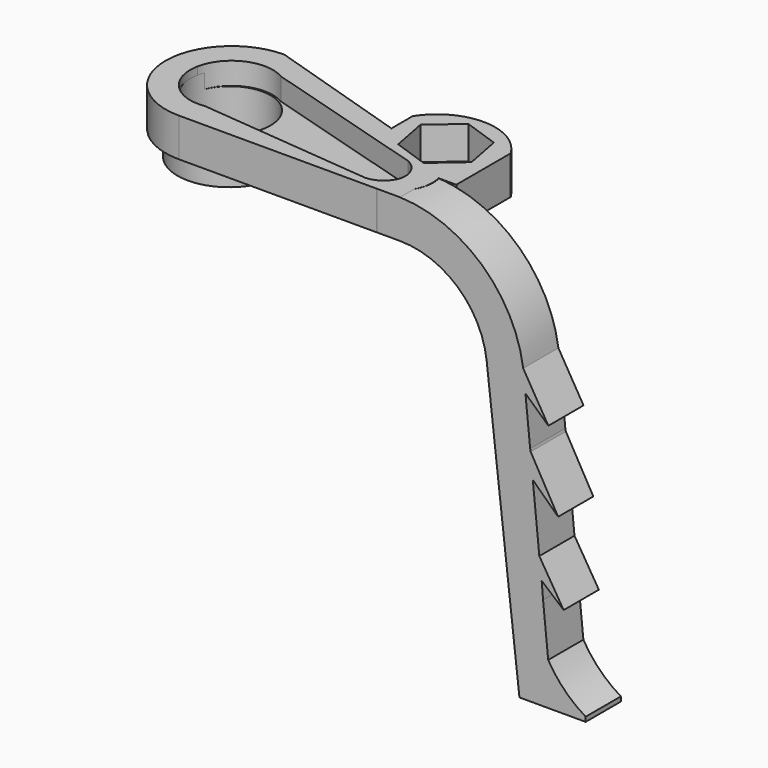
from build123d import *

# Parameters (mm, degrees)
PAD061_DEPTH       = 3.5
PAD059_DEPTH       = 2.5
PAD057_DEPTH       = 2
PAD058_DEPTH       = 3.5
SKETCH098_R        = 4.702209
PAD060_DEPTH       = 2.2
SKETCH099_R        = 3.711245
POCKET003044_DEPTH = 5
SKETCH101_R        = 1.7
POCKET003045_DEPTH = 5
POCKET003046_DEPTH = 3
PAD062_DEPTH       = 4


with BuildPart() as leg_link_shape:
    # Sketch100 → Pad061 (new body)
    with BuildSketch(Plane(origin=(0, 0, 31.512352), x_dir=(-1, 0, 0), z_dir=(0, 0, 1))):
        with BuildLine():
            Line((-20.438215, -2), (-13.234047, -4.102969))
            Line((-13.234047, -4.102969), (-13.028216, -6.021869))
            Line((-13.028216, -6.021869), (-13.028216, -8.298126))
            ThreePointArc((-22.034031, -8.18918), (-17.561616, -10.764285), (-13.028216, -8.298126))
            Line((-22.034031, -8.18918), (-22.034031, -2))
            Line((-20.438215, -2), (-22.034031, -2))
        make_face()
    extrude(amount=-PAD061_DEPTH)


with BuildPart() as obj1:
    # Sketch094 → Pad059 (new body)
    with BuildSketch(Plane(origin=(0, 4, 32), x_dir=(-0.981627, 0.190809, 0), z_dir=(0, 0, 1))):
        with BuildLine():
            ThreePointArc((3.75, 0.000844), (2.164719, 3.062106), (-1.25, 3.535534))
            Line((-1.25, 3.535534), (-17.000656, 2.000032))
            ThreePointArc((-17.000656, 2.000032), (-18.187877, 1.283749), (-18.711844, 0))
            ThreePointArc((-18.711844, 0), (-18.187829, -1.28373), (-17.000581, -1.999968))
            Line((-1.249867, -3.534878), (-17.000581, -1.999968))
            ThreePointArc((-1.249867, -3.534878), (2.165178, -3.061078), (3.75, 0.000844))
        make_face()
    extrude(amount=-PAD059_DEPTH)


with BuildPart() as obj2:
    # Sketch095 → Pad057 (new body, symmetric)
    with BuildSketch(Plane.XZ):
        with BuildLine():
            Line((0, 28.012352), (20.118014, 28.012352))
            ThreePointArc((27.996705, 20.985645), (25.39647, 26.000475), (20.118014, 28.012352))
            Line((27.996705, 20.985645), (30.977077, -4.999855))
            Line((33.977077, -4.999855), (30.977077, -4.999855))
            Line((31.375086, 21.001563), (33.977077, -4.999855))
            ThreePointArc((31.375086, 21.001563), (27.724484, 28.375327), (20.118014, 31.512352))
            Line((0, 31.512352), (20.118014, 31.512352))
            Line((0, 28.012352), (0, 31.512352))
        make_face()
    extrude(amount=PAD057_DEPTH, both=True)

    # Sketch096 → Pad058 (new body)
    with BuildSketch(Plane(origin=(0, 0, 31.512352), x_dir=(-1, 0, 0), z_dir=(0, 0, 1))):
        with BuildLine():
            Line((-18.002971, 2.001985), (0, 2.001985))
            ThreePointArc((0, -10), (6.000993, -3.999007), (0, 2.001985))
            Line((-19, -4), (0, -10))
            ThreePointArc((-18.002971, 2.001985), (-20.489406, -0.668781), (-19, -4))
        make_face()
    extrude(amount=-PAD058_DEPTH)

    # Cut: cut obj1
    add(obj1.part, mode=Mode.SUBTRACT)

    # Sketch098 → Pad060 (new body)
    with BuildSketch(Plane(origin=(0, 0, 28.012352), x_dir=(1, 0, 0), z_dir=(0, 0, -1))):
        with Locations((-0.089106, -3.841625)):
            Circle(SKETCH098_R)
    extrude(amount=PAD060_DEPTH)

    # Sketch099 → Pocket003044 (cut)
    with BuildSketch(Plane(origin=(0, 0, 25.812352), x_dir=(1, 0, 0), z_dir=(0, 0, -1))):
        with Locations((-0.080471, -3.899184)):
            Circle(SKETCH099_R)
    extrude(amount=-POCKET003044_DEPTH, mode=Mode.SUBTRACT)

    # Fusion007041: union leg_link_shape
    add(leg_link_shape.part)

    # Sketch101 → Pocket003045 (cut)
    with BuildSketch(Plane.XY.offset(31.512352)):
        with Locations((17.5, 6.5)):
            Circle(SKETCH101_R)
    extrude(amount=-POCKET003045_DEPTH, mode=Mode.SUBTRACT)

    # Sketch103 → Pocket003046 (cut)
    with BuildSketch(Plane.XY.offset(31.512352)):
        Polygon((18.142559, 3.16127), (20.712704, 5.387107), (20.070146, 8.725837), (16.857441, 9.83873), (14.287296, 7.612893), (14.929854, 4.274163), align=None)
    extrude(amount=-POCKET003046_DEPTH, mode=Mode.SUBTRACT)

    # Sketch102 → Pad062 (new body)
    with BuildSketch(Plane.XZ.offset(2)):
        with BuildLine():
            Line((27, 28.536497), (32.513573, -5))
            Line((32.513573, -5), (37.000002, -5))
            Line((37.000002, -5), (37.000002, -4.583553))
            ThreePointArc((33.505627, -1), (35.019116, -3.019659), (37.000002, -4.583553))
            Line((33, 5), (33.505627, -1))
            Line((35, 3.304739), (33, 5))
            Line((32.728943, 7), (35, 3.304739))
            Line((32, 13), (32.728943, 7))
            Line((34.496559, 10.608005), (32, 13))
            Line((32, 15), (34.496559, 10.608005))
            Line((31, 20), (32, 15))
            Line((33.606815, 17.606869), (31, 20))
            Line((31, 22), (33.606815, 17.606869))
            Line((27, 28.536497), (31, 22))
        make_face()
    extrude(amount=-PAD062_DEPTH)


solid = obj2.part
